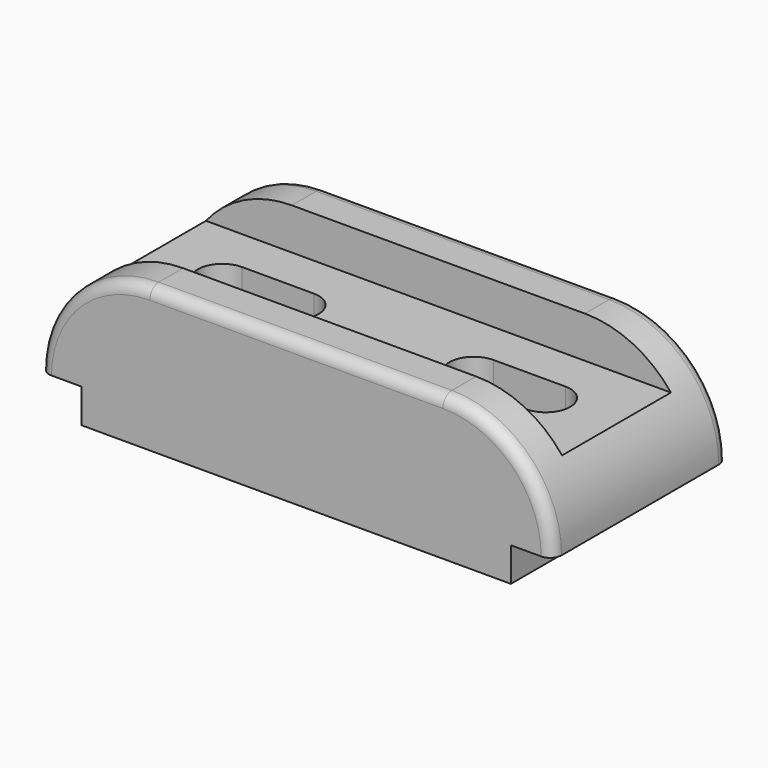
from build123d import *

# Parameters (mm, degrees)
F0_W     = 8.562588
F0_H     = 9
F1_DEPTH = 58
F3_DEPTH = 11
F4_R     = 3
F6_DEPTH = 38.001


with BuildPart() as f1:
    # F0 (on Front) → F1 (new body)
    with BuildSketch(Plane.XZ):
        with BuildLine():
            Line((-49.456521, 9), (-49.456521, 0))
            Line((-49.456521, 0), (55.543479, 0))
            Line((55.543479, 0), (55.543479, 9))
            Line((55.543479, 9), (66.543479, 9))
            ThreePointArc((66.543479, 9), (58.049576, 29.506097), (37.543479, 38))
            Line((37.543479, 38), (-40.019109, 38))
            ThreePointArc((-40.019109, 38), (-60.525206, 29.506097), (-69.019109, 9))
            Line((-69.019109, 9), (-58.019109, 9))
            Line((-58.019109, 9), (-49.456521, 9))
        make_face()
        with Locations((-53.737815, 4.5)):
            Rectangle(F0_W, F0_H)
    extrude(amount=-F1_DEPTH)

    # F2 (on face) → F3 (cut)
    with BuildSketch(Plane.XY.offset(38)):
        Polygon((-64.201698, 11), (0, 11), (60.26233, 11), (64.404465, 11), (64.404465, 47), (60.26233, 47), (0, 47), (-64.201698, 47), align=None)
    extrude(amount=-F3_DEPTH, mode=Mode.SUBTRACT)

    # F4
    f4_edges = [f1.edges().sort_by_distance(p)[0] for p in [
        (-1.237815, 0, 38),
        (-1.237815, 58, 38),
        (-60.525206, 0, 29.506097),
        (58.049576, 0, 29.506097),
        (-60.525206, 58, 29.506097),
        (58.049576, 58, 29.506097),
    ]]
    fillet(f4_edges, radius=F4_R)

    # F5 (on face) → F6 (cut, through all)
    with BuildSketch(Plane(origin=(0, 0, 0), x_dir=(1, 0, 0), z_dir=(0, 0, -1))):
        with BuildLine():
            Line((-25.019109, -22.5), (-44.019109, -22.5))
            ThreePointArc((-44.019109, -22.5), (-48.615303, -24.403806), (-50.519109, -29))
            ThreePointArc((-50.519109, -29), (-48.615303, -33.596194), (-44.019109, -35.5))
            Line((-44.019109, -35.5), (-25.019109, -35.5))
            ThreePointArc((-25.019109, -35.5), (-18.519109, -29), (-25.019109, -22.5))
        make_face()
        with BuildLine():
            Line((41.543479, -22.5), (22.543479, -22.5))
            ThreePointArc((22.543479, -22.5), (16.043479, -29), (22.543479, -35.5))
            Line((22.543479, -35.5), (41.543479, -35.5))
            ThreePointArc((41.543479, -35.5), (46.139673, -33.596194), (48.043479, -29))
            ThreePointArc((48.043479, -29), (46.139673, -24.403806), (41.543479, -22.5))
        make_face()
    extrude(amount=-F6_DEPTH, mode=Mode.SUBTRACT)


solid = f1.part
